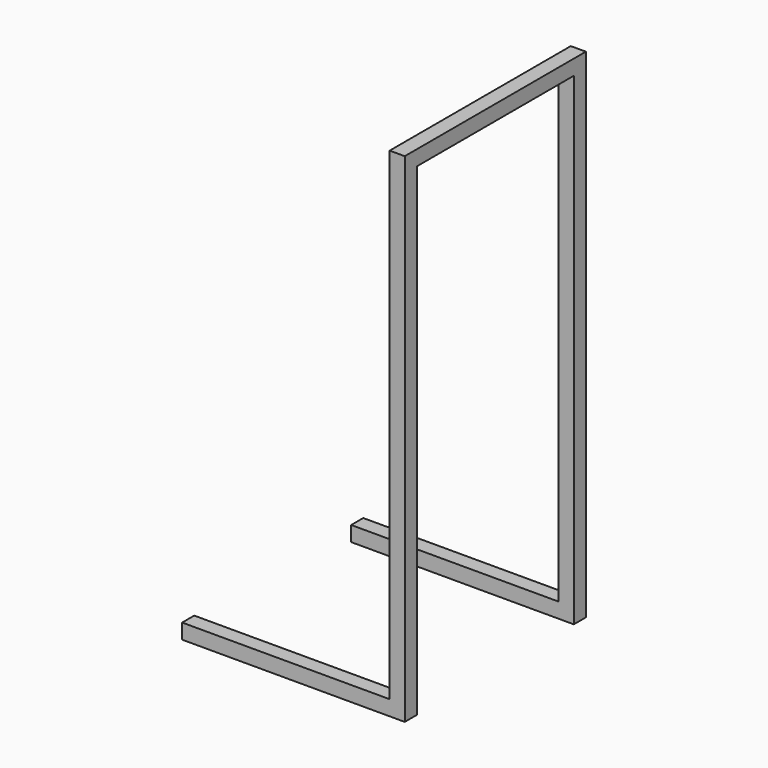
from build123d import *

# Parameters (mm, degrees)
F1_DEPTH = 762
F2_W     = 660.4
F2_H     = 1625.6
F3_DEPTH = 749.301


with BuildPart() as f1:
    # F0 (on Front) → F1 (new body)
    with BuildSketch(Plane.XZ):
        Polygon((0, 50.8), (0, 0), (749.3, 0), (749.3, 1676.4), (698.5, 1676.4), (698.5, 50.8), align=None)
    extrude(amount=F1_DEPTH)

    # F2 (on face) → F3 (cut, through all)
    with BuildSketch(Plane.YZ.offset(749.3)):
        with Locations((-381, 812.8)):
            Rectangle(F2_W, F2_H)
    extrude(amount=-F3_DEPTH, mode=Mode.SUBTRACT)


solid = f1.part
